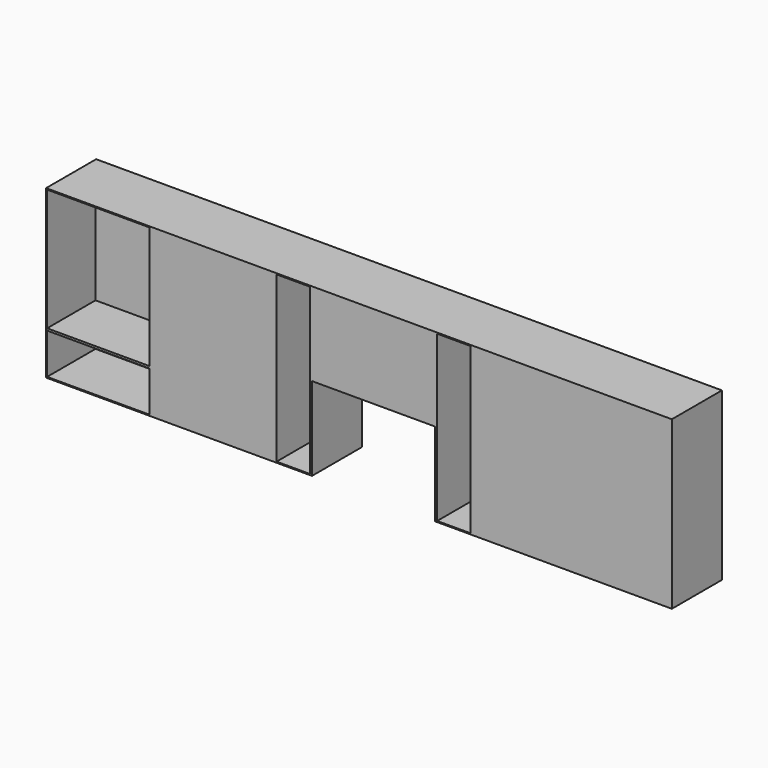
from build123d import *

# Parameters (mm, degrees)
F0_W     = 3000
F0_H     = 800
F1_DEPTH = 300
F2_W     = 490
F2_H     = 790
F3_DEPTH = 290
F4_W     = 160
F4_H     = 790
F5_DEPTH = 290
F6_W     = 590
F6_H     = 400
F7_DEPTH = 300.001
F8_W     = 25
F8_H     = 10
F8_W_2   = 440
F9_DEPTH = 290


with BuildPart() as f1:
    # F0 (on Front) → F1 (new body)
    with BuildSketch(Plane.XZ):
        with Locations((1500, 400)):
            Rectangle(F0_W, F0_H)
    extrude(amount=F1_DEPTH)

    # F2 (on face) → F3 (cut)
    with BuildSketch(Plane.XZ.offset(300)):
        with Locations((250, 400)):
            Rectangle(F2_W, F2_H)
    extrude(amount=-F3_DEPTH, mode=Mode.SUBTRACT)

    # F4 (on face) → F5 (cut)
    with BuildSketch(Plane.XZ.offset(300)):
        with Locations((1185, 400)):
            Rectangle(F4_W, F4_H)
        with Locations((1955, 400)):
            Rectangle(F4_W, F4_H)
    extrude(amount=-F5_DEPTH, mode=Mode.SUBTRACT)

    # F6 (on face) → F7 (cut, through all)
    with BuildSketch(Plane.XZ.offset(300)):
        with Locations((1570, 200)):
            Rectangle(F6_W, F6_H)
    extrude(amount=-F7_DEPTH, mode=Mode.SUBTRACT)

    # F8 (on face) → F9 (join, through all)
    with BuildSketch(Plane.XZ.offset(10)):
        with Locations((17.5, 205)):
            Rectangle(F8_W, F8_H)
        with Locations((42.5, 205)):
            Rectangle(F8_W, F8_H)
        with Locations((275, 205)):
            Rectangle(F8_W_2, F8_H)
        with Locations((507.5, 205)):
            Rectangle(F8_W, F8_H)
        with Locations((532.5, 205)):
            Rectangle(F8_W, F8_H)
    extrude(amount=F9_DEPTH)


solid = f1.part
